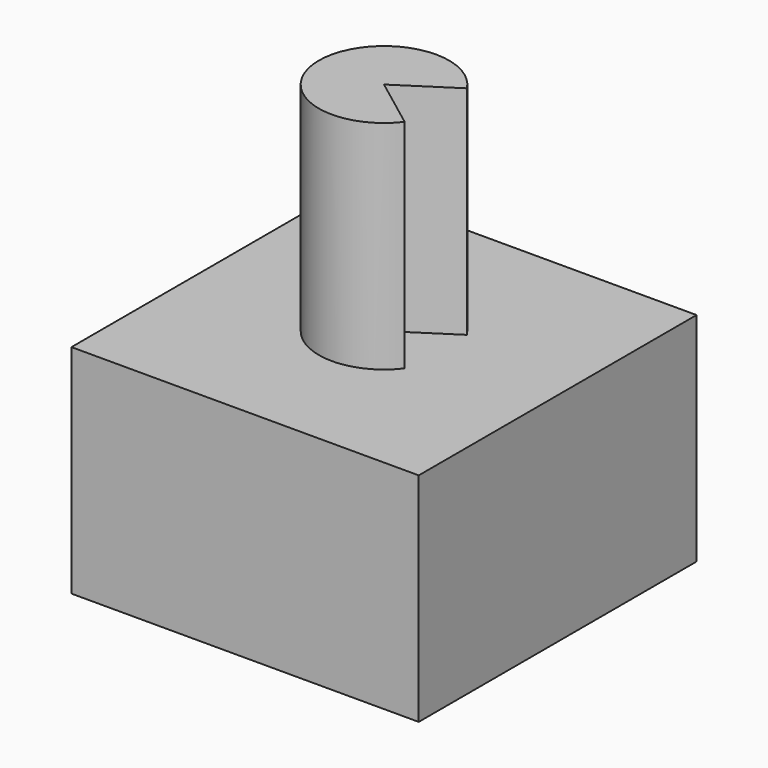
from build123d import *

# Parameters (mm, degrees)
BOX001_W                 = 10
BOX001_H                 = 10
BOX001_DEPTH             = 8
CYLINDER_W               = 3
CYLINDER_H               = 10
CYLINDER_ANGLE           = 290
CYLINDER_PLACEMENT_ANGLE = 33
BOX_W                    = 16
BOX_H                    = 16
BOX_DEPTH                = 10


with BuildPart() as cube001:
    # Box001 → Box001 (new body)
    with BuildSketch(Plane(origin=(-5, -5, 0), x_dir=(1, 0, 0), z_dir=(0, 0, 1))):
        with Locations((5, 5)):
            Rectangle(BOX001_W, BOX001_H)
    extrude(amount=BOX001_DEPTH)


with BuildPart() as cylinder:
    # Cylinder → Cylinder (revolve)
    with BuildSketch(Plane.XZ):
        with Locations((1.5, 5)):
            Rectangle(CYLINDER_W, CYLINDER_H)
    revolve(axis=Axis((0, 0, 0), (0, 0, 1)), revolution_arc=CYLINDER_ANGLE)


with BuildPart() as cylinder_1:
    # Cylinder placement: moved
    add(cylinder.part.moved(Location((0, 0, 10))).rotate(Axis((0, 0, 10), (0, 0, 1)), CYLINDER_PLACEMENT_ANGLE))


with BuildPart() as cut:
    # Box → Box (new body)
    with BuildSketch(Plane(origin=(-8, -8, 0), x_dir=(1, 0, 0), z_dir=(0, 0, 1))):
        with Locations((8, 8)):
            Rectangle(BOX_W, BOX_H)
    extrude(amount=BOX_DEPTH)

    # Fusion: union Cylinder
    add(cylinder_1.part)

    # Cut: cut Cube001
    add(cube001.part, mode=Mode.SUBTRACT)


solid = cut.part
